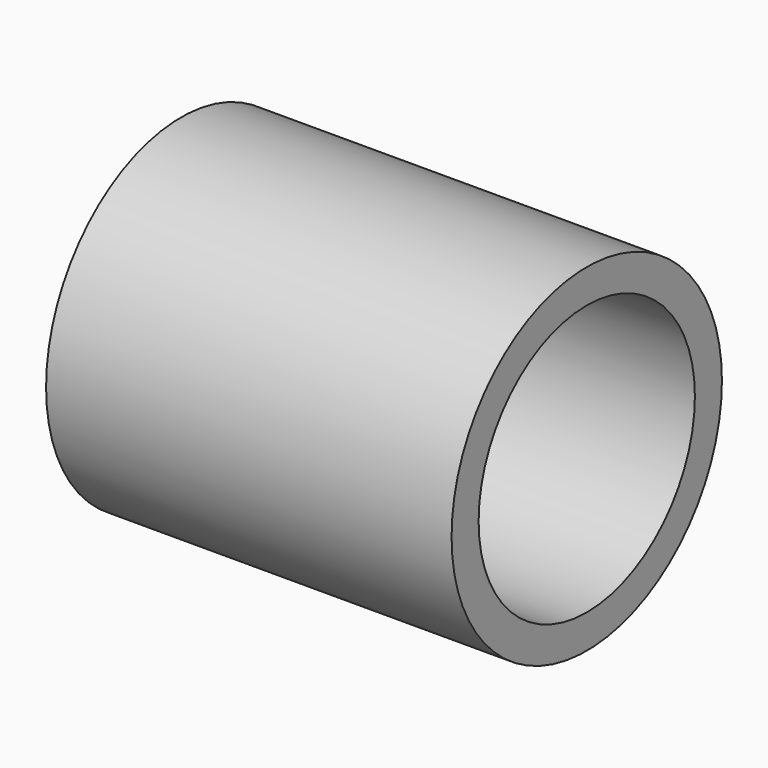
from build123d import *

# Parameters (mm, degrees)
F0_R     = 50
F1_DEPTH = 60
F2_R     = 40
F3_DEPTH = 120.001


with BuildPart() as f1:
    # F0 (on Right) → F1 (new body, symmetric)
    with BuildSketch(Plane.YZ):
        Circle(F0_R)
    extrude(amount=F1_DEPTH, both=True)

    # F2 (on face) → F3 (cut, through all)
    with BuildSketch(Plane.YZ.offset(60)):
        Circle(F2_R)
    extrude(amount=-F3_DEPTH, mode=Mode.SUBTRACT)


solid = f1.part
